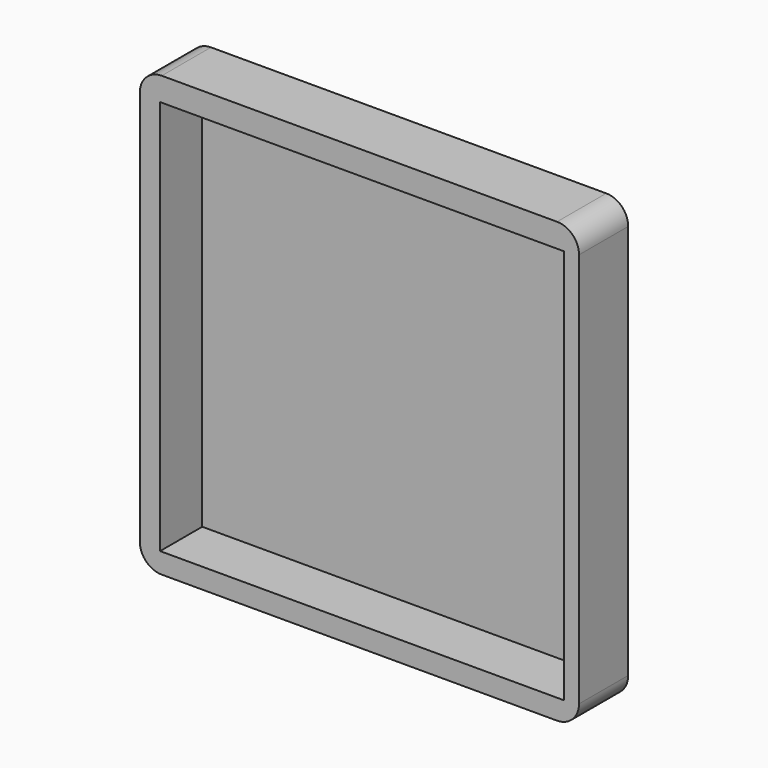
from build123d import *

# Parameters (mm, degrees)
F0_W     = 100
F0_H     = 100
F1_DEPTH = 14
F2_W     = 92
F2_H     = 90
F3_DEPTH = 12
F4_R     = 5


with BuildPart() as f1:
    # F0 (on Front) → F1 (new body)
    with BuildSketch(Plane.XZ):
        with Locations((5.404, 11.584203)):
            Rectangle(F0_W, F0_H)
    extrude(amount=F1_DEPTH)

    # F2 (on face) → F3 (cut)
    with BuildSketch(Plane.XZ.offset(14)):
        with Locations((6.02, 11.180203)):
            Rectangle(F2_W, F2_H)
    extrude(amount=-F3_DEPTH, mode=Mode.SUBTRACT)

    # F4
    f4_edges = [f1.edges().sort_by_distance(p)[0] for p in [
        (-44.596, -7, -38.415797),
        (55.404, -7, -38.415797),
        (55.404, -7, 61.584203),
        (-44.596, -7, 61.584203),
    ]]
    fillet(f4_edges, radius=F4_R)


solid = f1.part
